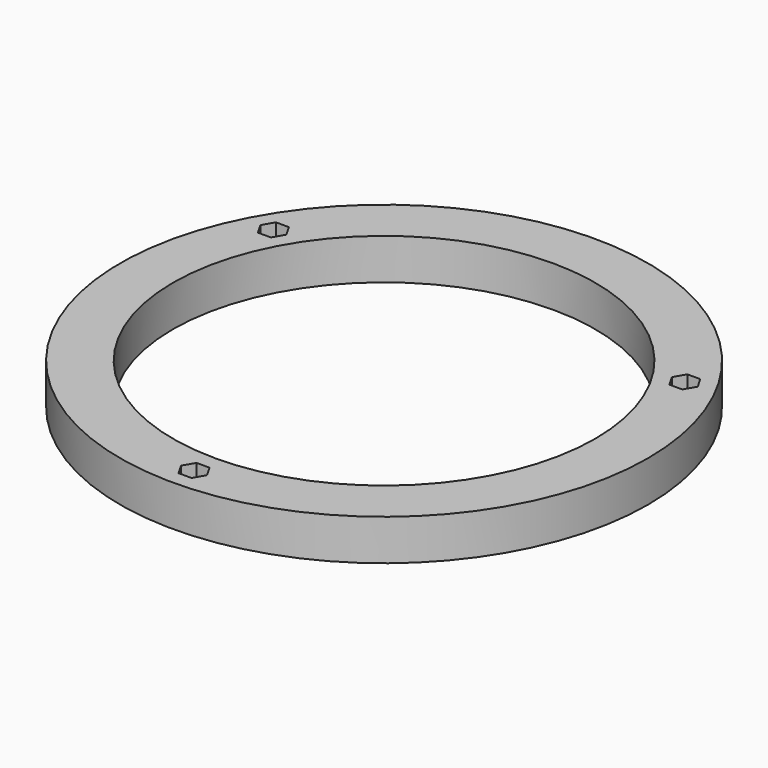
from build123d import *

# Parameters (mm, degrees)
F0_R     = 50.8
F0_R_2   = 40.64
F1_DEPTH = 7.874


with BuildPart() as f1:
    # F0 (on Top) → F1 (new body)
    with BuildSketch(Plane.XY):
        Circle(F0_R)
        Polygon((2.492998, -45.72), (1.246499, -47.879), (-1.246499, -47.879), (-2.492998, -45.72), (-1.246499, -43.561), (1.246499, -43.561), align=None, mode=Mode.SUBTRACT)
        Circle(F0_R_2, mode=Mode.SUBTRACT)
        Polygon((-42.08768, 22.86), (-40.841181, 25.019), (-38.348182, 25.019), (-37.101683, 22.86), (-38.348182, 20.701), (-40.841181, 20.701), align=None, mode=Mode.SUBTRACT)
        Polygon((37.101683, 22.86), (38.348182, 25.019), (40.841181, 25.019), (42.08768, 22.86), (40.841181, 20.701), (38.348182, 20.701), align=None, mode=Mode.SUBTRACT)
    extrude(amount=F1_DEPTH)


solid = f1.part
